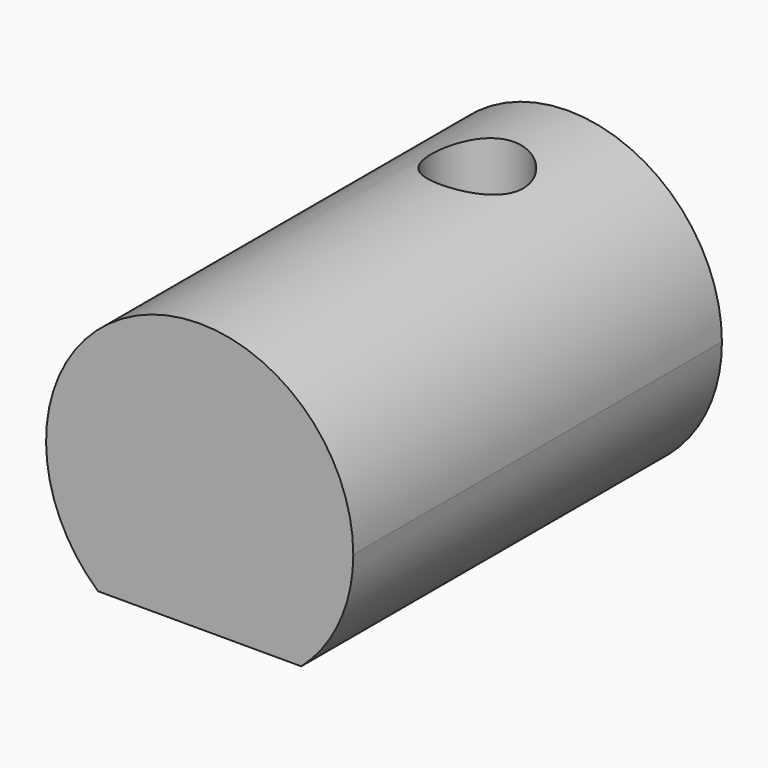
from build123d import *

# Parameters (mm, degrees)
F0_R     = 20
F1_DEPTH = 60
F3_R     = 6
F4_DEPTH = 23.59607
F5_W     = 79.34783
F5_H     = 17.173914
F6_DEPTH = 121.24079


with BuildPart() as f1:
    # F0 (on Front) → F1 (new body)
    with BuildSketch(Plane.XZ):
        Circle(F0_R)
    extrude(amount=F1_DEPTH)

    # F3 (on offset) → F4 (cut)
    with BuildSketch(Plane.XY.offset(10)):
        with Locations((0, -14.817017)):
            Circle(F3_R)
    extrude(amount=F4_DEPTH, mode=Mode.SUBTRACT)

    # F5 (on face) → F6 (cut)
    with BuildSketch(Plane.XZ.offset(60)):
        with Locations((7.579689, -23.586957)):
            Rectangle(F5_W, F5_H)
    extrude(amount=-F6_DEPTH, mode=Mode.SUBTRACT)


solid = f1.part
